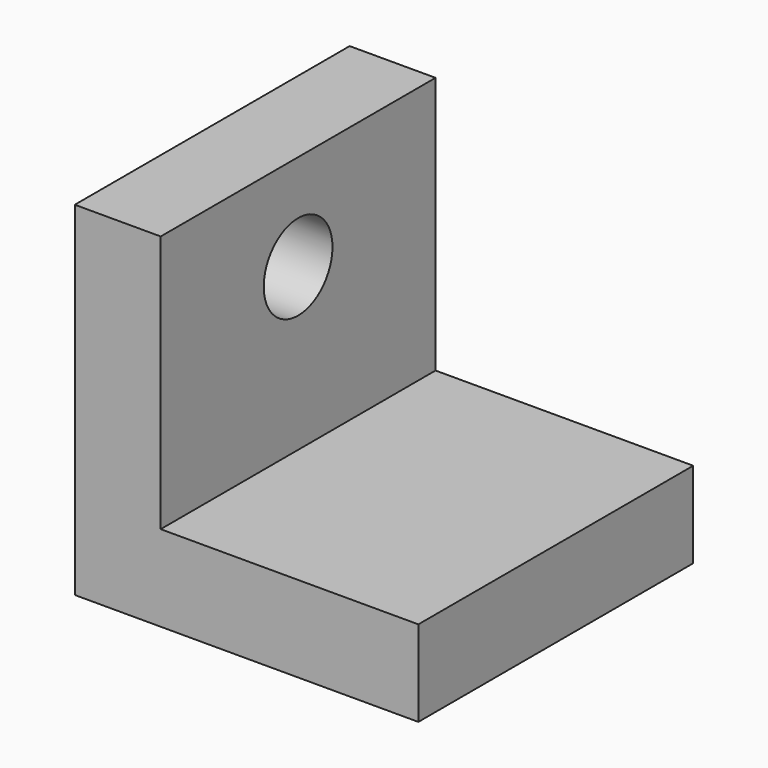
from build123d import *

# Parameters (mm, degrees)
F0_W     = 50.8
F0_H     = 50.8
F3_DEPTH = 12.7
F1_W     = 50.8
F1_H     = 12.7
F4_DEPTH = 50.8
F2_R     = 6.35
F5_DEPTH = 48.006


with BuildPart() as f3:
    # F0 (on Right) → F3 (new body)
    with BuildSketch(Plane.YZ):
        with Locations((25.4, 25.4)):
            Rectangle(F0_W, F0_H)
    extrude(amount=F3_DEPTH)

    # F1 (on Right) → F4 (join)
    with BuildSketch(Plane.YZ):
        with Locations((25.4, 6.35)):
            Rectangle(F1_W, F1_H)
    extrude(amount=F4_DEPTH)

    # F2 (on Right) → F5 (cut)
    with BuildSketch(Plane.YZ):
        with Locations((25.4, 36.520243)):
            Circle(F2_R)
    extrude(amount=F5_DEPTH, mode=Mode.SUBTRACT)


solid = f3.part
